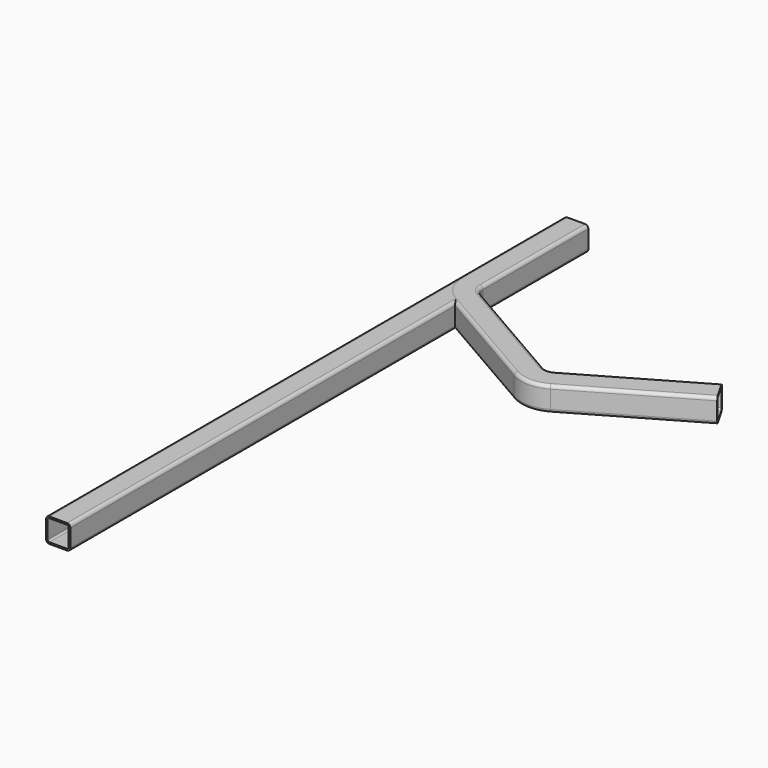
from build123d import *

# Parameters (mm, degrees)
F1_DEPTH = 400


with BuildPart() as f1:
    # F0 (on Front) → F1 (new body)
    with BuildSketch(Plane.XZ):
        with BuildLine():
            ThreePointArc((7.5, 5.5), (6.9142135624, 6.9142135624), (5.5, 7.5))
            Line((5.5, 7.5), (-5.5, 7.5))
            ThreePointArc((-5.5, 7.5), (-6.9142135624, 6.9142135624), (-7.5, 5.5))
            Line((-7.5, 5.5), (-7.5, -5.5))
            ThreePointArc((-7.5, -5.5), (-6.9142135624, -6.9142135624), (-5.5, -7.5))
            Line((-5.5, -7.5), (5.5, -7.5))
            ThreePointArc((5.5, -7.5), (6.9142135624, -6.9142135624), (7.5, -5.5))
            Line((7.5, -5.5), (7.5, 5.5))
        make_face()
        with BuildLine():
            Line((-5.5, 6.5), (5.5, 6.5))
            ThreePointArc((5.5, 6.5), (6.2071067812, 6.2071067812), (6.5, 5.5))
            Line((6.5, 5.5), (6.5, -5.5))
            ThreePointArc((6.5, -5.5), (6.2071067812, -6.2071067812), (5.5, -6.5))
            Line((5.5, -6.5), (-5.5, -6.5))
            ThreePointArc((-5.5, -6.5), (-6.2071067812, -6.2071067812), (-6.5, -5.5))
            Line((-6.5, -5.5), (-6.5, 5.5))
            ThreePointArc((-6.5, 5.5), (-6.2071067812, 6.2071067812), (-5.5, 6.5))
        make_face(mode=Mode.SUBTRACT)
    extrude(amount=F1_DEPTH)


with BuildPart() as f3:
    # F3: sweep along a path in F2
    with BuildLine(Plane.XY) as f3_path:
        Line((0, 0), (0, -81.3397459622))
        ThreePointArc((0, -81.3397459622), (2.0096189432, -88.8397459622), (7.5, -94.3301270189))
        Line((7.5, -94.3301270189), (79.1025403784, -135.6698729811))
        ThreePointArc((79.1025403784, -135.6698729811), (86.6025403784, -137.6794919243), (94.1025403784, -135.6698729811))
        Line((94.1025403784, -135.6698729811), (164.544826719, -95))
    # F1_face (on face) → F3 (sweep)
    with BuildSketch(Plane(origin=(0, 0, 0), x_dir=(1, 0, 0), z_dir=(0, 1, 0))):
        with BuildLine():
            ThreePointArc((5.5, -7.5), (6.9142135624, -6.9142135624), (7.5, -5.5))
            Line((7.5, -5.5), (7.5, 5.5))
            ThreePointArc((7.5, 5.5), (6.9142135624, 6.9142135624), (5.5, 7.5))
            Line((5.5, 7.5), (-5.5, 7.5))
            ThreePointArc((-5.5, 7.5), (-6.9142135624, 6.9142135624), (-7.5, 5.5))
            Line((-7.5, 5.5), (-7.5, -5.5))
            ThreePointArc((-7.5, -5.5), (-6.9142135624, -6.9142135624), (-5.5, -7.5))
            Line((-5.5, -7.5), (5.5, -7.5))
        make_face()
        with BuildLine():
            Line((5.5, -6.5), (-5.5, -6.5))
            ThreePointArc((-5.5, -6.5), (-6.2071067812, -6.2071067812), (-6.5, -5.5))
            Line((-6.5, -5.5), (-6.5, 5.5))
            ThreePointArc((-6.5, 5.5), (-6.2071067812, 6.2071067812), (-5.5, 6.5))
            Line((-5.5, 6.5), (5.5, 6.5))
            ThreePointArc((5.5, 6.5), (6.2071067812, 6.2071067812), (6.5, 5.5))
            Line((6.5, 5.5), (6.5, -5.5))
            ThreePointArc((6.5, -5.5), (6.2071067812, -6.2071067812), (5.5, -6.5))
        make_face(mode=Mode.SUBTRACT)
    sweep(path=f3_path.line)


solid = Compound([f1.part, f3.part])
